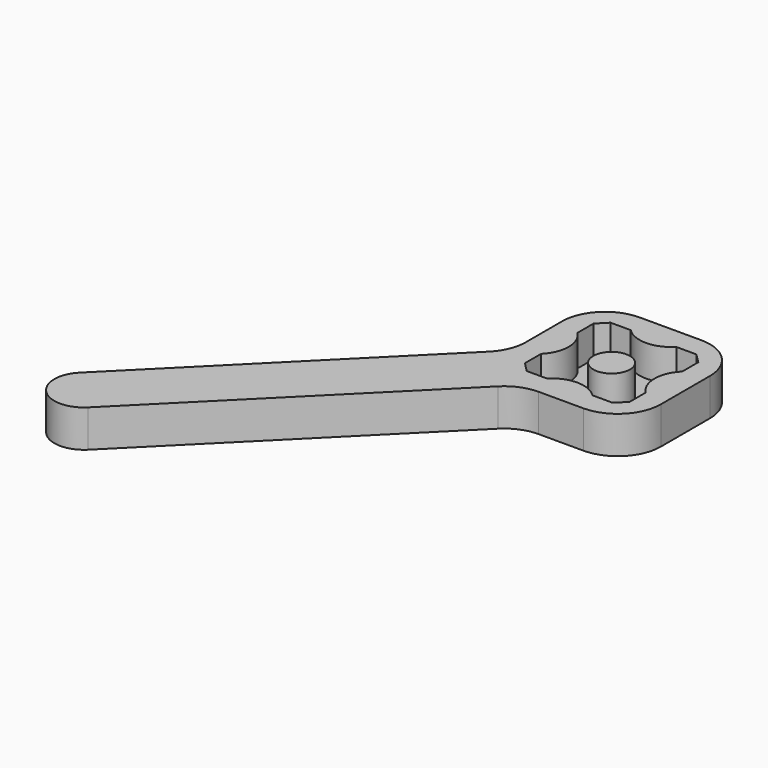
from build123d import *

# Parameters (mm, degrees)
F0_R     = 3.1
F1_DEPTH = 1
F2_DEPTH = 5.3
F3_R     = 7.282243


with BuildPart() as f1:
    # F0 (on Top) → F1 (new body)
    with BuildSketch(Plane.XY):
        with BuildLine():
            Line((-12.504604, -5.433536), (-53.033009, -45.961941))
            ThreePointArc((-53.033009, -45.961941), (-53.033009, -53.033009), (-45.961941, -53.033009))
            Line((-45.961941, -53.033009), (-5.428932, -12.5))
            Line((-5.428932, -12.5), (-5.35066, -12.421728))
            Line((-5.35066, -12.421728), (12.495396, -12.421728))
            Line((12.495396, -12.421728), (12.495396, 12.5))
            Line((12.495396, 12.5), (-12.5, 12.5))
            Line((-12.5, 12.5), (-12.5, -5.428932))
            Line((-12.5, -5.428932), (-12.504604, -5.433536))
        make_face()
        with BuildLine():
            Line((-8.854604, 7.328272), (-7.254604, 8.928272))
            Line((-7.254604, 8.928272), (-3.854604, 8.928272))
            ThreePointArc((-3.854604, 8.928272), (-0.004604, 7.328272), (3.845396, 8.928272))
            Line((3.845396, 8.928272), (7.245396, 8.928272))
            Line((7.245396, 8.928272), (8.845396, 7.328272))
            Line((8.845396, 7.328272), (8.845396, 3.928272))
            ThreePointArc((8.845396, 3.928272), (7.245396, 0.078272), (8.845396, -3.771728))
            Line((8.845396, -3.771728), (8.845396, -7.171728))
            Line((8.845396, -7.171728), (7.245396, -8.771728))
            Line((7.245396, -8.771728), (3.845396, -8.771728))
            ThreePointArc((3.845396, -8.771728), (-0.004604, -7.171728), (-3.854604, -8.771728))
            Line((-3.854604, -8.771728), (-7.254604, -8.771728))
            Line((-7.254604, -8.771728), (-8.854604, -7.171728))
            Line((-8.854604, -7.171728), (-8.854604, -3.771728))
            ThreePointArc((-8.854604, -3.771728), (-7.254604, 0.078272), (-8.854604, 3.928272))
            Line((-8.854604, 3.928272), (-8.854604, 7.328272))
        make_face(mode=Mode.SUBTRACT)
        with BuildLine():
            Line((-3.854604, 8.928272), (-7.254604, 8.928272))
            Line((-7.254604, 8.928272), (-8.854604, 7.328272))
            Line((-8.854604, 7.328272), (-8.854604, 3.928272))
            ThreePointArc((-8.854604, 3.928272), (-7.254604, 0.078272), (-8.854604, -3.771728))
            Line((-8.854604, -3.771728), (-8.854604, -7.171728))
            Line((-8.854604, -7.171728), (-7.254604, -8.771728))
            Line((-7.254604, -8.771728), (-3.854604, -8.771728))
            ThreePointArc((-3.854604, -8.771728), (-0.004604, -7.171728), (3.845396, -8.771728))
            Line((3.845396, -8.771728), (7.245396, -8.771728))
            Line((7.245396, -8.771728), (8.845396, -7.171728))
            Line((8.845396, -7.171728), (8.845396, -3.771728))
            ThreePointArc((8.845396, -3.771728), (7.245396, 0.078272), (8.845396, 3.928272))
            Line((8.845396, 3.928272), (8.845396, 7.328272))
            Line((8.845396, 7.328272), (7.245396, 8.928272))
            Line((7.245396, 8.928272), (3.845396, 8.928272))
            ThreePointArc((3.845396, 8.928272), (-0.004604, 7.328272), (-3.854604, 8.928272))
        make_face()
        with Locations((-0.004604, 0.078272)):
            Circle(F0_R, mode=Mode.SUBTRACT)
        with Locations((-0.004604, 0.078272)):
            Circle(F0_R)
    extrude(amount=-F1_DEPTH)

    # F0 (on Top) → F2 (join)
    with BuildSketch(Plane.XY):
        with BuildLine():
            Line((-12.504604, -5.433536), (-53.033009, -45.961941))
            ThreePointArc((-53.033009, -45.961941), (-53.033009, -53.033009), (-45.961941, -53.033009))
            Line((-45.961941, -53.033009), (-5.428932, -12.5))
            Line((-5.428932, -12.5), (-5.35066, -12.421728))
            Line((-5.35066, -12.421728), (12.495396, -12.421728))
            Line((12.495396, -12.421728), (12.495396, 12.5))
            Line((12.495396, 12.5), (-12.5, 12.5))
            Line((-12.5, 12.5), (-12.5, -5.428932))
            Line((-12.5, -5.428932), (-12.504604, -5.433536))
        make_face()
        with BuildLine():
            Line((-8.854604, 7.328272), (-7.254604, 8.928272))
            Line((-7.254604, 8.928272), (-3.854604, 8.928272))
            ThreePointArc((-3.854604, 8.928272), (-0.004604, 7.328272), (3.845396, 8.928272))
            Line((3.845396, 8.928272), (7.245396, 8.928272))
            Line((7.245396, 8.928272), (8.845396, 7.328272))
            Line((8.845396, 7.328272), (8.845396, 3.928272))
            ThreePointArc((8.845396, 3.928272), (7.245396, 0.078272), (8.845396, -3.771728))
            Line((8.845396, -3.771728), (8.845396, -7.171728))
            Line((8.845396, -7.171728), (7.245396, -8.771728))
            Line((7.245396, -8.771728), (3.845396, -8.771728))
            ThreePointArc((3.845396, -8.771728), (-0.004604, -7.171728), (-3.854604, -8.771728))
            Line((-3.854604, -8.771728), (-7.254604, -8.771728))
            Line((-7.254604, -8.771728), (-8.854604, -7.171728))
            Line((-8.854604, -7.171728), (-8.854604, -3.771728))
            ThreePointArc((-8.854604, -3.771728), (-7.254604, 0.078272), (-8.854604, 3.928272))
            Line((-8.854604, 3.928272), (-8.854604, 7.328272))
        make_face(mode=Mode.SUBTRACT)
        with Locations((-0.004604, 0.078272)):
            Circle(F0_R)
    extrude(amount=F2_DEPTH)

    # F3
    f3_edges = [f1.edges().sort_by_distance(p)[0] for p in [
        (-12.5, -5.428932, 2.15),
        (-12.5, 12.5, 2.15),
        (12.495396, 12.5, 2.15),
        (12.495396, -12.421728, 2.15),
        (-5.35066, -12.421728, 2.15),
    ]]
    fillet(f3_edges, radius=F3_R)


solid = f1.part
